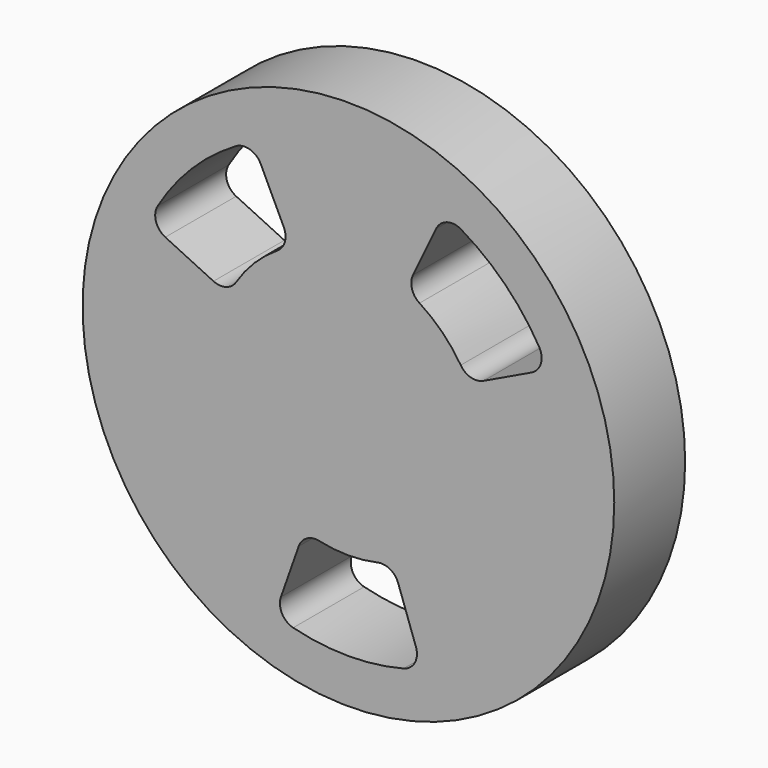
from build123d import *

# Parameters (mm, degrees)
F0_R     = 76.2
F1_DEPTH = 25.4
F3_DEPTH = 25.4


with BuildPart() as f1:
    # F0 (on Front) → F1 (new body)
    with BuildSketch(Plane.XZ):
        Circle(F0_R)
    extrude(amount=F1_DEPTH)

    # F2 (on face) → F3 (cut)
    with BuildSketch(Plane.XZ.offset(25.4)):
        with BuildLine():
            Line((-52.494522, 25.127975), (-38.677355, 18.514))
            ThreePointArc((-38.677355, 18.514), (-35.080153, 18.213926), (-32.19177, 20.37891))
            ThreePointArc((-32.19177, 20.37891), (-26.940768, 26.940768), (-20.37891, 32.19177))
            ThreePointArc((-20.37891, 32.19177), (-18.213926, 35.080153), (-18.514, 38.677355))
            Line((-18.514, 38.677355), (-25.127975, 52.494522))
            ThreePointArc((-25.127975, 52.494522), (-28.231073, 55.161107), (-32.293557, 54.675188))
            ThreePointArc((-32.293557, 54.675188), (-44.901281, 44.901281), (-54.675188, 32.293557))
            ThreePointArc((-54.675188, 32.293557), (-55.161107, 28.231073), (-52.494522, 25.127975))
        make_face()
        with BuildLine():
            Line((19.351072, -54.887394), (14.257645, -40.440395))
            ThreePointArc((14.257645, -40.440395), (11.926223, -37.684605), (8.352953, -37.173084))
            ThreePointArc((8.352953, -37.173084), (0, -38.1), (-8.352953, -37.173084))
            ThreePointArc((-8.352953, -37.173084), (-11.926223, -37.684605), (-14.257645, -40.440395))
            Line((-14.257645, -40.440395), (-19.351072, -54.887394))
            ThreePointArc((-19.351072, -54.887394), (-19.04241, -58.967176), (-15.826203, -61.496189))
            ThreePointArc((-15.826203, -61.496189), (0, -63.5), (15.826203, -61.496189))
            ThreePointArc((15.826203, -61.496189), (19.04241, -58.967176), (19.351072, -54.887394))
        make_face()
        with BuildLine():
            Line((25.127975, 52.494522), (18.514, 38.677355))
            ThreePointArc((18.514, 38.677355), (18.213926, 35.080153), (20.37891, 32.19177))
            ThreePointArc((20.37891, 32.19177), (26.940768, 26.940768), (32.19177, 20.37891))
            ThreePointArc((32.19177, 20.37891), (35.080153, 18.213926), (38.677355, 18.514))
            Line((38.677355, 18.514), (52.494522, 25.127975))
            ThreePointArc((52.494522, 25.127975), (55.161107, 28.231073), (54.675188, 32.293557))
            ThreePointArc((54.675188, 32.293557), (44.901281, 44.901281), (32.293557, 54.675188))
            ThreePointArc((32.293557, 54.675188), (28.231073, 55.161107), (25.127975, 52.494522))
        make_face()
    extrude(amount=-F3_DEPTH, mode=Mode.SUBTRACT)


solid = f1.part
